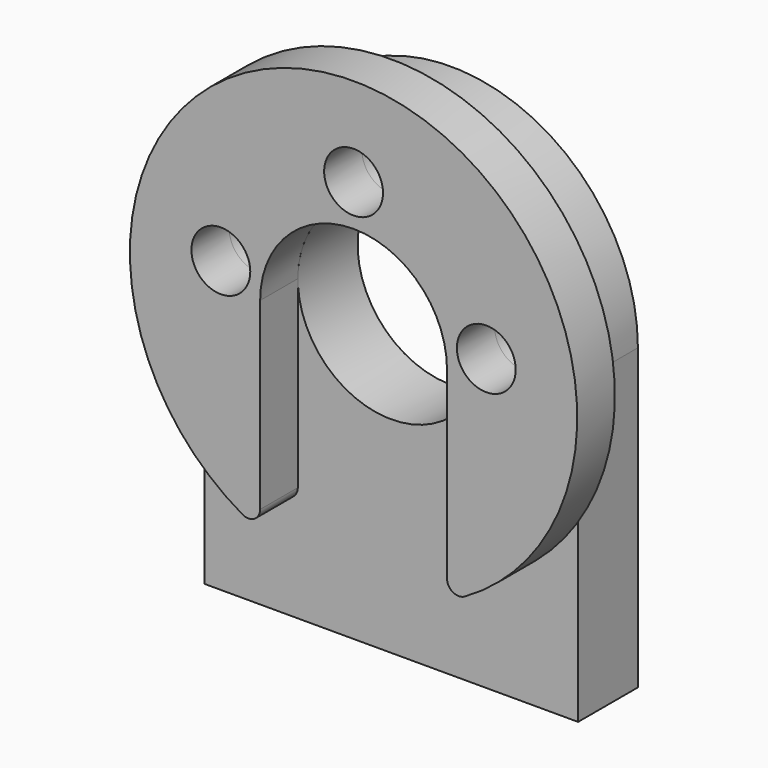
from build123d import *

# Parameters (mm, degrees)
F0_R     = 2.5
F0_R_2   = 7.9375
F1_DEPTH = 6.35
F2_R     = 2.5
F3_DEPTH = 4
F4_R     = 1


with BuildPart() as f1:
    # F0 (on Front) → F1 (new body)
    with BuildSketch(Plane.XZ):
        with BuildLine():
            Line((15.875, -25.4), (15.875, 0))
            ThreePointArc((15.875, 0), (0, 15.875), (-15.875, 0))
            Line((-15.875, 0), (-15.875, -25.4))
            Line((-15.875, -25.4), (15.875, -25.4))
        make_face()
        with Locations((-11.274329, 1.88)):
            Circle(F0_R, mode=Mode.SUBTRACT)
        Circle(F0_R_2, mode=Mode.SUBTRACT)
        with Locations((11.274329, 1.88)):
            Circle(F0_R, mode=Mode.SUBTRACT)
        with Locations((0, 11.43)):
            Circle(F0_R, mode=Mode.SUBTRACT)
    extrude(amount=F1_DEPTH)


with BuildPart() as f3:
    # F2 (on face) → F3 (new body)
    with BuildSketch(Plane.XZ.offset(6.35)):
        with BuildLine():
            ThreePointArc((-7.9375, 0), (0, 7.9375), (7.9375, 0))
            Line((7.9375, 0), (7.9375, -17.262563))
            ThreePointArc((7.9375, -17.262563), (0, 19), (-7.9375, -17.262563))
            Line((-7.9375, -17.262563), (-7.9375, 0))
        make_face()
        with Locations((-11.274329, 1.88)):
            Circle(F2_R, mode=Mode.SUBTRACT)
        with Locations((11.274329, 1.88)):
            Circle(F2_R, mode=Mode.SUBTRACT)
        with Locations((0, 11.43)):
            Circle(F2_R, mode=Mode.SUBTRACT)
    extrude(amount=F3_DEPTH)

    # F4
    f4_edges = [f3.edges().sort_by_distance(p)[0] for p in [
        (7.9375, -8.35, -17.262563),
        (-7.9375, -8.35, -17.262563),
    ]]
    fillet(f4_edges, radius=F4_R)


solid = Compound([f1.part, f3.part])
